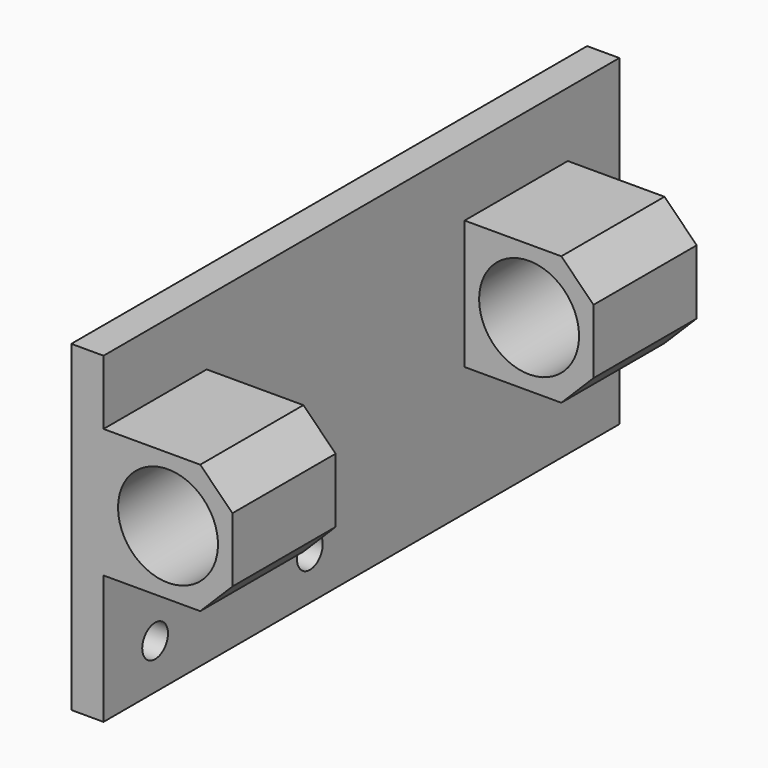
from build123d import *

# Parameters (mm, degrees)
F0_W     = 5
F0_H     = 50
F1_DEPTH = 100
F3_D     = 5
F2_W     = 20
F2_H     = 20
F4_DEPTH = 20
F5_SIZE  = 5
F7_D     = 15.5


with BuildPart() as f1:
    # F0 (on Front) → F1 (new body)
    with BuildSketch(Plane.XZ):
        with Locations((-2.5, -25)):
            Rectangle(F0_W, F0_H)
    extrude(amount=-F1_DEPTH)

    # F3 (through all)
    with Locations(Plane.YZ):
        with Locations((10, -43), (40, -43)):
            Hole(F3_D / 2)

    # F2 (on face) → F4 (join)
    with BuildSketch(Plane.YZ):
        with Locations((10, -20)):
            Rectangle(F2_W, F2_H)
        with Locations((80, -20)):
            Rectangle(F2_W, F2_H)
    extrude(amount=F4_DEPTH)

    # F5
    f5_edges = [f1.edges().sort_by_distance(p)[0] for p in [
        (20, 10, -10),
        (20, 10, -30),
        (20, 80, -10),
        (20, 80, -30),
    ]]
    chamfer(f5_edges, length=F5_SIZE)

    # F7 (through all)
    with Locations(Plane.XZ):
        with Locations((10, -20)):
            Hole(F7_D / 2)


solid = f1.part
